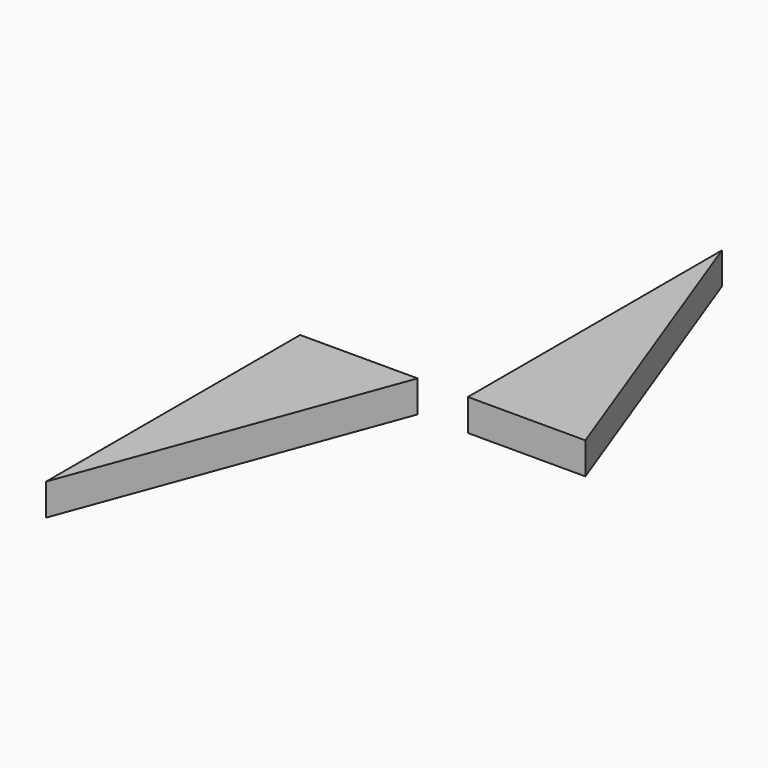
from build123d import *

# Parameters (mm, degrees)
F1_DEPTH = 5.08
F3_DEPTH = 5.08


with BuildPart() as f1:
    # F0 (on Top) → F1 (new body)
    with BuildSketch(Plane.XY):
        Polygon((-29.873677, 0), (-48.669677, 0), (-48.669677, -50.8), align=None)
    extrude(amount=F1_DEPTH)


with BuildPart() as f3:
    # F2 (on Top) → F3 (new body)
    with BuildSketch(Plane.XY):
        Polygon((-21.828957, 50.8), (-21.828957, 0), (-3.032957, 0), align=None)
    extrude(amount=F3_DEPTH)


solid = Compound([f1.part, f3.part])
